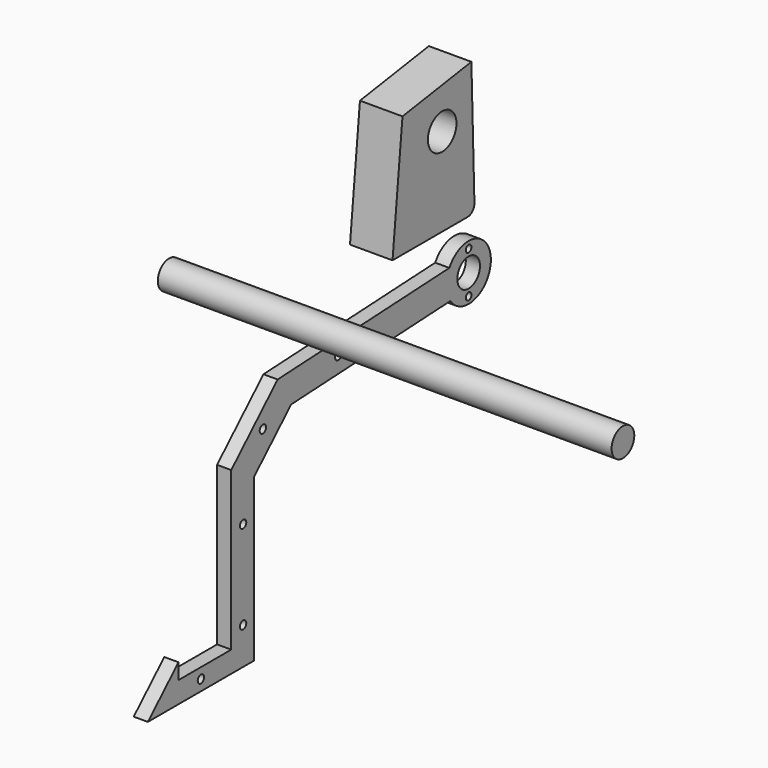
from build123d import *

# Parameters (mm, degrees)
F0_R     = 8.001
F1_DEPTH = 19.05
F2_R     = 6.35
F3_DEPTH = 6.35
F4_R     = 6.35
F9_DEPTH = 203.2
F6_DEPTH = 6.351
F7_R     = 1.778
F8_DEPTH = 6.351


with BuildPart() as f1:
    # F0 (on Right) → F1 (new body)
    with BuildSketch(Plane.YZ):
        with BuildLine():
            ThreePointArc((27.549779, 0), (30.283969, 1.156643), (31.358064, 3.924302))
            Line((31.358064, 3.924302), (29.665329, 60.322541))
            Line((29.665329, 60.322541), (-8.904883, 54.489972))
            Line((-8.904883, 54.489972), (-14.474982, 0))
            Line((-14.474982, 0), (27.549779, 0))
        make_face()
        with Locations((13.313917, 39.483521)):
            Circle(F0_R, mode=Mode.SUBTRACT)
    extrude(amount=F1_DEPTH)


with BuildPart() as f3:
    # F2 (on Right) → F3 (new body)
    with BuildSketch(Plane.YZ):
        with BuildLine():
            ThreePointArc((33.77032, -39.7667), (44.630778, -45.107985), (54.890377, -38.687745))
            Line((54.890377, -38.687745), (33.77032, -39.7667))
        make_face()
        with BuildLine():
            Line((33.77032, -39.7667), (54.890377, -38.687745))
            ThreePointArc((54.890377, -38.687745), (56.041949, -35.784715), (56.434046, -32.686334))
            ThreePointArc((56.434046, -32.686334), (55.835499, -28.874375), (54.097463, -25.429302))
            Line((54.097463, -25.429302), (33.207971, -26.496478))
            ThreePointArc((33.207971, -26.496478), (31.569499, -33.212937), (33.77032, -39.7667))
        make_face()
        with Locations((43.996196, -32.686334)):
            Circle(F2_R, mode=Mode.SUBTRACT)
        with BuildLine():
            Line((-55.350841, -44.31961), (33.77032, -39.7667))
            ThreePointArc((33.77032, -39.7667), (31.569499, -33.212937), (33.207971, -26.496478))
            Line((33.207971, -26.496478), (-62.903235, -31.406487))
            Line((-62.903235, -31.406487), (-88.871296, -56.547195))
            Line((-88.871296, -56.547195), (-88.871296, -127.341716))
            Line((-88.871296, -127.341716), (-118.40374, -127.341716))
            Line((-118.40374, -127.341716), (-118.40374, -120.303118))
            Line((-118.40374, -120.303118), (-135.528811, -136.866716))
            Line((-135.528811, -136.866716), (-76.171296, -136.866716))
            Line((-76.171296, -136.866716), (-76.171296, -64.476716))
            Line((-76.171296, -64.476716), (-55.350841, -44.31961))
        make_face()
        with BuildLine():
            ThreePointArc((54.097463, -25.429302), (43.361615, -20.264683), (33.207971, -26.496478))
            Line((33.207971, -26.496478), (54.097463, -25.429302))
        make_face()
    extrude(amount=F3_DEPTH)

    # F5 (on face) → F6 (cut, through all)
    with BuildSketch(Plane.YZ.offset(6.35)):
        with BuildLine():
            ThreePointArc((43.996196, -21.704909), (42.408696, -23.292409), (43.996196, -24.879909))
            Line((43.996196, -24.879909), (43.996196, -21.704909))
        make_face()
        with BuildLine():
            Line((43.996196, -21.704909), (43.996196, -24.879909))
            ThreePointArc((43.996196, -24.879909), (45.118728, -24.414941), (45.583696, -23.292409))
            ThreePointArc((45.583696, -23.292409), (45.118728, -22.169877), (43.996196, -21.704909))
        make_face()
        with BuildLine():
            ThreePointArc((45.583696, -42.080259), (45.118728, -40.957727), (43.996196, -40.492759))
            Line((43.996196, -40.492759), (43.996196, -43.667759))
            ThreePointArc((43.996196, -43.667759), (45.118728, -43.202791), (45.583696, -42.080259))
        make_face()
        with BuildLine():
            Line((43.996196, -43.667759), (43.996196, -40.492759))
            ThreePointArc((43.996196, -40.492759), (42.408696, -42.080259), (43.996196, -43.667759))
        make_face()
    extrude(amount=-F6_DEPTH, mode=Mode.SUBTRACT)

    # F7 (on face) → F8 (cut, through all)
    with BuildSketch(Plane.YZ.offset(6.35)):
        with Locations((-105.850054, -132.028289)):
            Circle(F7_R)
        with Locations((-82.239799, -120.303117)):
            Circle(F7_R)
        with Locations((-82.239799, -80.587826)):
            Circle(F7_R)
        with Locations((-28.957387, -35.803366)):
            Circle(F7_R)
        with Locations((-71.166607, -47.564429)):
            Circle(F7_R)
    extrude(amount=-F8_DEPTH, mode=Mode.SUBTRACT)


with BuildPart() as f9:
    # F4 (on Right) → F9 (new body)
    with BuildSketch(Plane.YZ):
        with Locations((-115.697227, 29.389367)):
            Circle(F4_R)
    extrude(amount=F9_DEPTH)


solid = Compound([f1.part, f3.part, f9.part])
